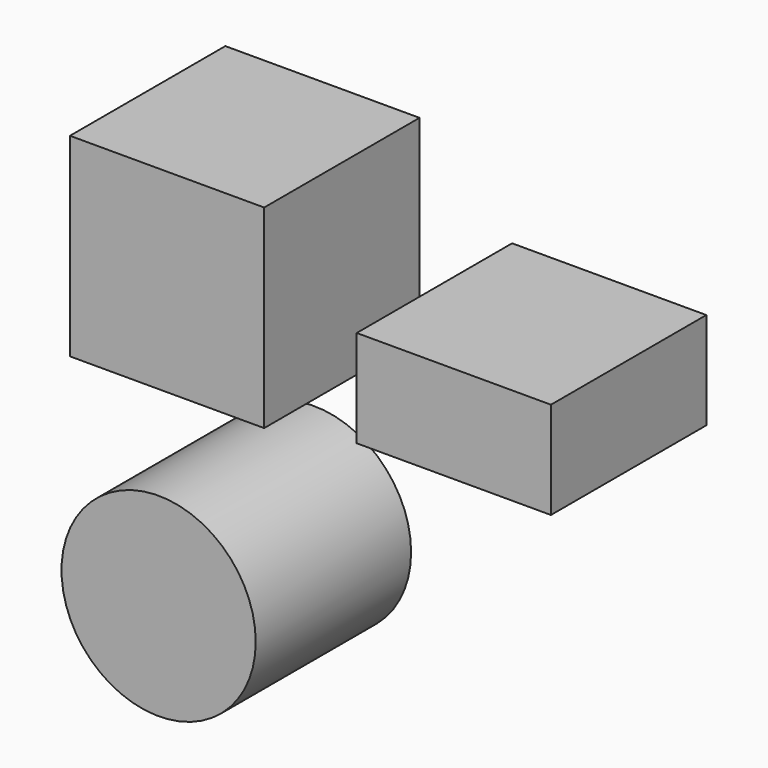
from build123d import *

# Parameters (mm, degrees)
F0_W     = 50.8
F0_H     = 50.8
F3_DEPTH = 50.8
F1_W     = 50.8
F1_H     = 25.4
F2_R     = 25.4
F4_DEPTH = 50.8


with BuildPart() as f3:
    # F0 (on Front) → F3 (new body)
    with BuildSketch(Plane.XZ):
        with Locations((-36.399898, 40.910499)):
            Rectangle(F0_W, F0_H)
        with Locations((-36.399898, 40.910499)):
            Rectangle(F0_W, F0_H)
    extrude(amount=F3_DEPTH)


with BuildPart() as f4:
    # F1 (on Front) + F2 (on Front) → F4 (new body)
    with BuildSketch(Plane.XZ):
        with Locations((38.609478, 32.592176)):
            Rectangle(F1_W, F1_H)
    with BuildSketch(Plane.XZ):
        with Locations((-38.609479, -34.422908)):
            Circle(F2_R)
    extrude(amount=F4_DEPTH)


solid = Compound([f3.part, f4.part])
